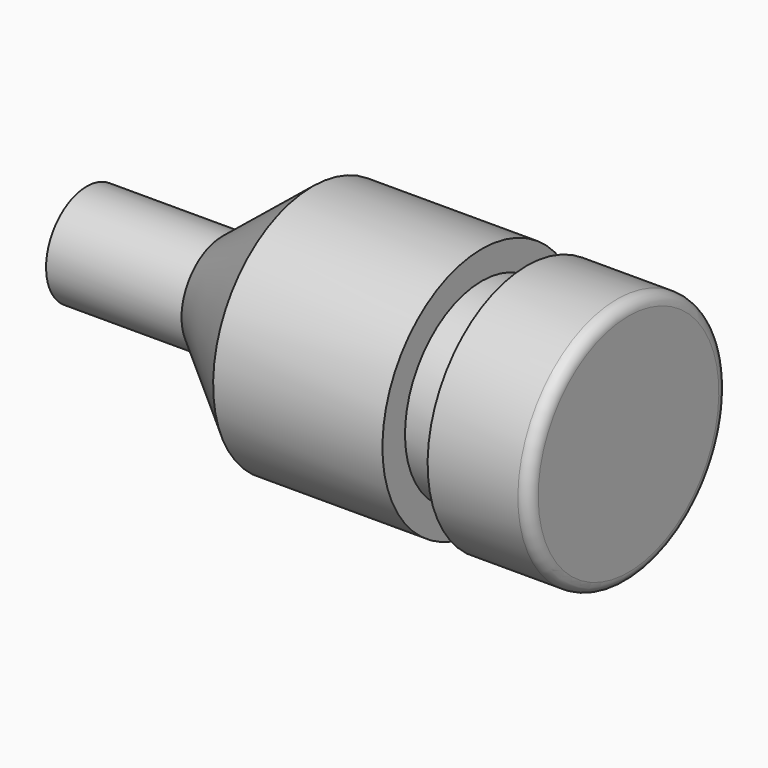
from build123d import *


with BuildPart() as f1:
    # F0 (on Front) → F1 (revolve)
    with BuildSketch(Plane.XZ):
        with BuildLine():
            Line((0, 22.5), (0, 0))
            Line((0, 0), (240, 0))
            Line((240, 0), (240, 50))
            ThreePointArc((240, 50), (238.535534, 53.535534), (235, 55))
            Line((235, 55), (195, 55))
            Line((195, 55), (195, 42.5))
            Line((195, 42.5), (175, 42.5))
            Line((175, 42.5), (175, 55))
            Line((175, 55), (100, 55))
            Line((100, 55), (60, 22.5))
            Line((60, 22.5), (0, 22.5))
        make_face()
    revolve(axis=Axis((-20.114416, 0, 0), (-1, 0, 0)))


solid = f1.part
